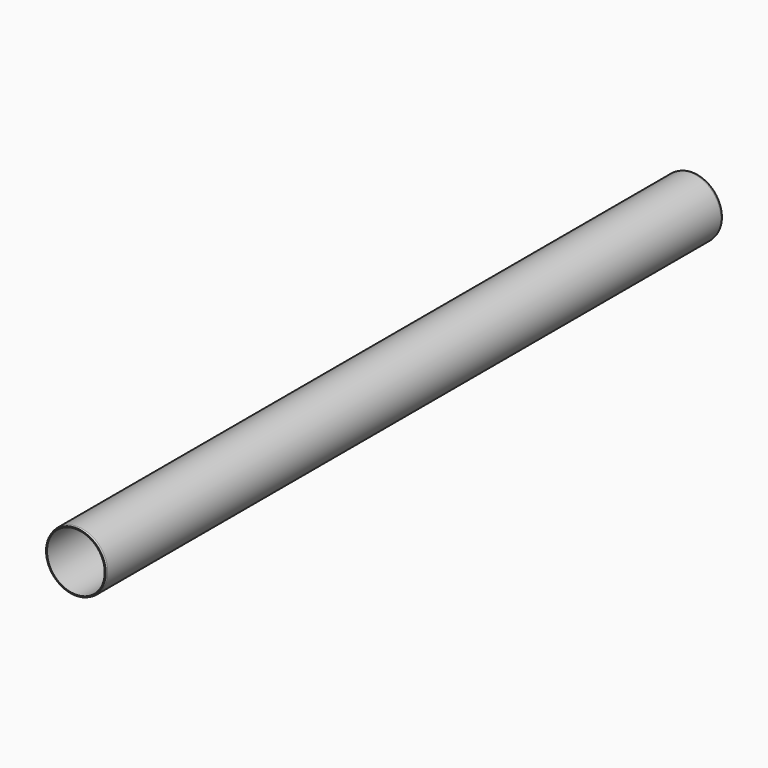
from build123d import *

# Parameters (mm, degrees)
F0_R     = 157.5
F1_DEPTH = 4000
F2_R     = 150
F3_DEPTH = 4000.001
F4_SIZE2 = 10
F4_SIZE  = 2.5
F5_SIZE2 = 10
F5_SIZE  = 2.5


with BuildPart() as f1:
    # F0 (on Front) → F1 (new body)
    with BuildSketch(Plane.XZ):
        Circle(F0_R)
    extrude(amount=F1_DEPTH)

    # F2 (on face) → F3 (cut, through all)
    with BuildSketch(Plane.XZ.offset(4000)):
        Circle(F2_R)
    extrude(amount=-F3_DEPTH, mode=Mode.SUBTRACT)

    # F4
    f4_edges = [f1.edges().sort_by_distance(p)[0] for p in [
        (-157.5, -4000, 0),
    ]]
    f4_side = f1.faces().sort_by_distance((-153.045227, -4000, 0))[0]
    chamfer(f4_edges, length=F4_SIZE, length2=F4_SIZE2, reference=f4_side)

    # F5
    f5_edges = [f1.edges().sort_by_distance(p)[0] for p in [
        (-157.5, 0, 0),
    ]]
    f5_side = f1.faces().sort_by_distance((-153.045227, 0, 0))[0]
    chamfer(f5_edges, length=F5_SIZE, length2=F5_SIZE2, reference=f5_side)


solid = f1.part
